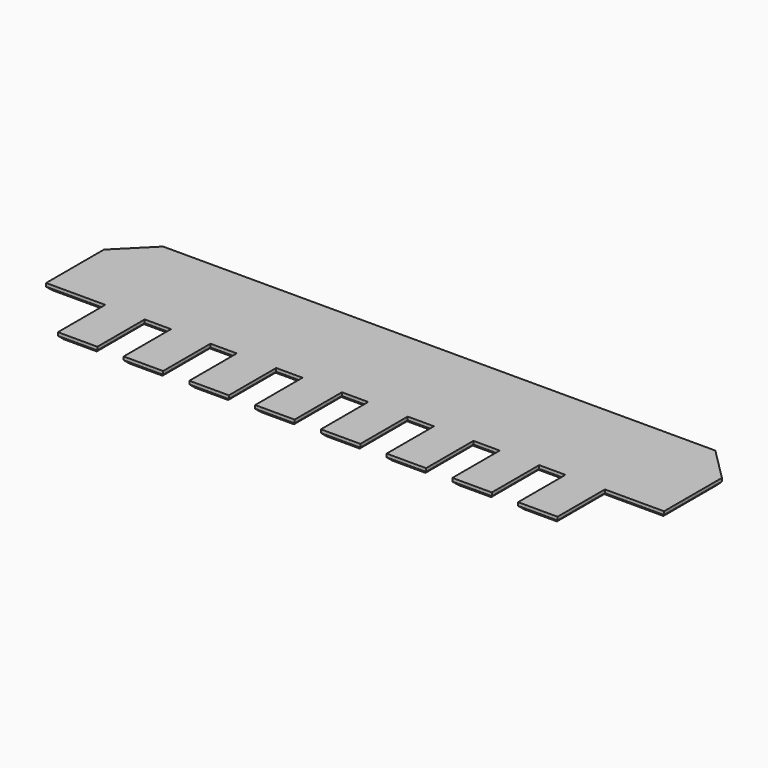
from build123d import *

# Parameters (mm, degrees)
F2_DEPTH = 1
F3_SIZE  = 5
F4_SIZE  = 0.5


with BuildPart() as f2:
    # F1 (on face) → F2 (new body)
    with BuildSketch(Plane.XY):
        Polygon((-47, 12.5), (-47, -3.5), (-38, -3.5), (-38, -12.5), (-32, -12.5), (-32, -3.5), (-28, -3.5), (-28, -12.5), (-22, -12.5), (-22, -3.5), (-18, -3.5), (-18, -12.5), (-12, -12.5), (-12, -3.5), (-8, -3.5), (-8, -12.5), (-2, -12.5), (-2, -3.5), (2, -3.5), (2, -12.5), (8, -12.5), (8, -3.5), (12, -3.5), (12, -12.5), (18, -12.5), (18, -3.5), (22, -3.5), (22, -12.5), (28, -12.5), (28, -3.5), (32, -3.5), (32, -12.5), (38, -12.5), (38, -3.5), (47, -3.5), (47, 12.5), align=None)
    extrude(amount=F2_DEPTH)

    # F3
    f3_edges = [f2.edges().sort_by_distance(p)[0] for p in [
        (47, 12.5, 0.5),
        (-47, 12.5, 0.5),
    ]]
    chamfer(f3_edges, length=F3_SIZE)

    # F4
    f4_edges = [f2.edges().sort_by_distance(p)[0] for p in [
        (-47, 2, 0),
        (-44.5, 10, 0),
        (-42.5, -3.5, 0),
        (0, 12.5, 0),
        (-38, -8, 0),
        (44.5, 10, 0),
        (-35, -12.5, 0),
        (47, 2, 0),
        (-32, -8, 0),
        (42.5, -3.5, 0),
        (-30, -3.5, 0),
        (38, -8, 0),
        (-28, -8, 0),
        (35, -12.5, 0),
        (-25, -12.5, 0),
        (32, -8, 0),
        (-22, -8, 0),
        (30, -3.5, 0),
        (-20, -3.5, 0),
        (28, -8, 0),
        (-18, -8, 0),
        (25, -12.5, 0),
        (-15, -12.5, 0),
        (22, -8, 0),
        (-12, -8, 0),
        (20, -3.5, 0),
        (-10, -3.5, 0),
        (18, -8, 0),
        (-8, -8, 0),
        (15, -12.5, 0),
        (-5, -12.5, 0),
        (12, -8, 0),
        (-2, -8, 0),
        (10, -3.5, 0),
        (0, -3.5, 0),
        (8, -8, 0),
        (2, -8, 0),
        (5, -12.5, 0),
    ]]
    chamfer(f4_edges, length=F4_SIZE)


solid = f2.part
